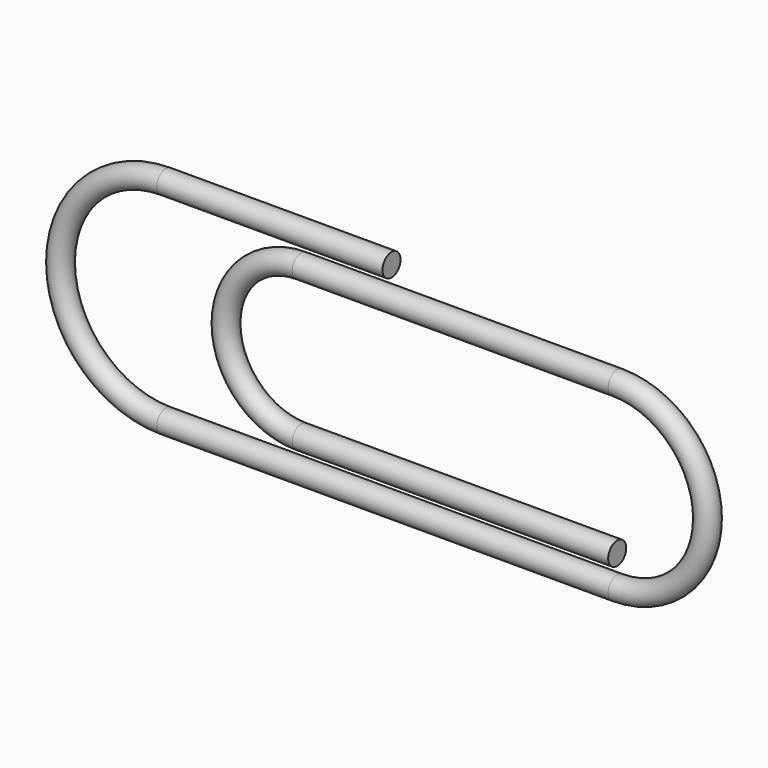
from build123d import *

# Parameters (mm, degrees)
F1_R = 0.75


with BuildPart() as f2:
    # F2: sweep along a path in F0
    with BuildLine(Plane.XZ) as f2_path:
        Line((0, 15), (-15, 15))
        ThreePointArc((-15, 15), (-22, 8), (-15, 1))
        Line((-15, 1), (15, 1))
        ThreePointArc((15, 1), (21, 7), (15, 13))
        Line((15, 13), (-6, 13))
        ThreePointArc((-6, 13), (-11, 8), (-6, 3))
        Line((-6, 3), (15, 3))
    # F1 (on Right) → F2 (sweep)
    with BuildSketch(Plane.YZ):
        with Locations((0, 15)):
            Circle(F1_R)
    sweep(path=f2_path.line)


solid = f2.part
